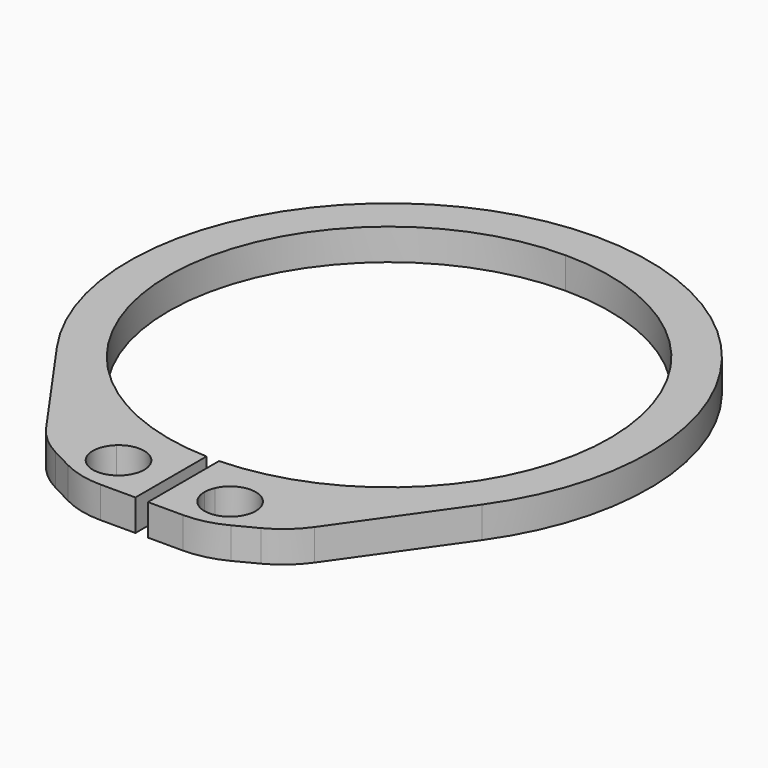
from build123d import *

# Parameters (mm, degrees)
F1_DEPTH = 0.635
F3_SIZE  = 0.762
F4_R     = 1.778


with BuildPart() as f1:
    # F0 (on Top) → F1 (new body)
    with BuildSketch(Plane.XY):
        with BuildLine():
            ThreePointArc((-0.127, -4.4685956586), (-4.4699488919, 0.0635064084), (0, 4.4704))
            Line((0, 4.4704), (0, 5.2705))
            ThreePointArc((0, 5.2705), (-4.6779281786, 2.4279946882), (-4.3100217321, -3.0334605518))
            ThreePointArc((-4.3100217321, -3.0334605518), (-3.0676623044, -4.285745937), (-1.4816672103, -5.057947462))
            ThreePointArc((-1.4816672103, -5.057947462), (-1.0252949469, -4.933284971), (-0.6563876884, -5.2294670333))
            ThreePointArc((-0.6563876884, -5.2294670333), (-0.3921915118, -5.2558877526), (-0.127, -5.2689696573))
            Line((-0.127, -5.2689696573), (-0.127, -4.9438178115))
            Line((-0.127, -4.9438178115), (-0.127, -4.4685956586))
        make_face()
        with BuildLine():
            ThreePointArc((-1.4816672103, -5.057947462), (-3.0676623044, -4.285745937), (-4.3100217321, -3.0334605518))
            Line((-4.3100217321, -3.0334605518), (-2.032, -6.2701346419))
            Line((-2.032, -6.2701346419), (-0.127, -6.2701346419))
            Line((-0.127, -6.2701346419), (-0.127, -5.2689696573))
            ThreePointArc((-0.127, -5.2689696573), (-0.3921915118, -5.2558877526), (-0.6563876884, -5.2294670333))
            ThreePointArc((-0.6563876884, -5.2294670333), (-0.6221376368, -5.333847732), (-0.6105490096, -5.4430910386))
            ThreePointArc((-0.6105490096, -5.4430910386), (-1.3418027236, -5.9193216797), (-1.4816672103, -5.057947462))
        make_face()
    extrude(amount=F1_DEPTH)

    # F2: F1 across plane


with BuildPart() as f1_1:
    add(f1.part)
    add(f1.part.mirror(Plane.YZ))

    # F3
    f3_edges = [f1_1.edges().sort_by_distance(p)[0] for p in [
        (-2.032, -6.270135, 0.3175),
        (2.032, -6.270135, 0.3175),
    ]]
    chamfer(f3_edges, length=F3_SIZE)

    # F4
    f4_edges = [f1_1.edges().sort_by_distance(p)[0] for p in [
        (-1.27, -6.270135, 0.3175),
        (-2.470573, -5.646999, 0.3175),
        (1.27, -6.270135, 0.3175),
        (2.470573, -5.646999, 0.3175),
    ]]
    fillet(f4_edges, radius=F4_R)


solid = f1_1.part
